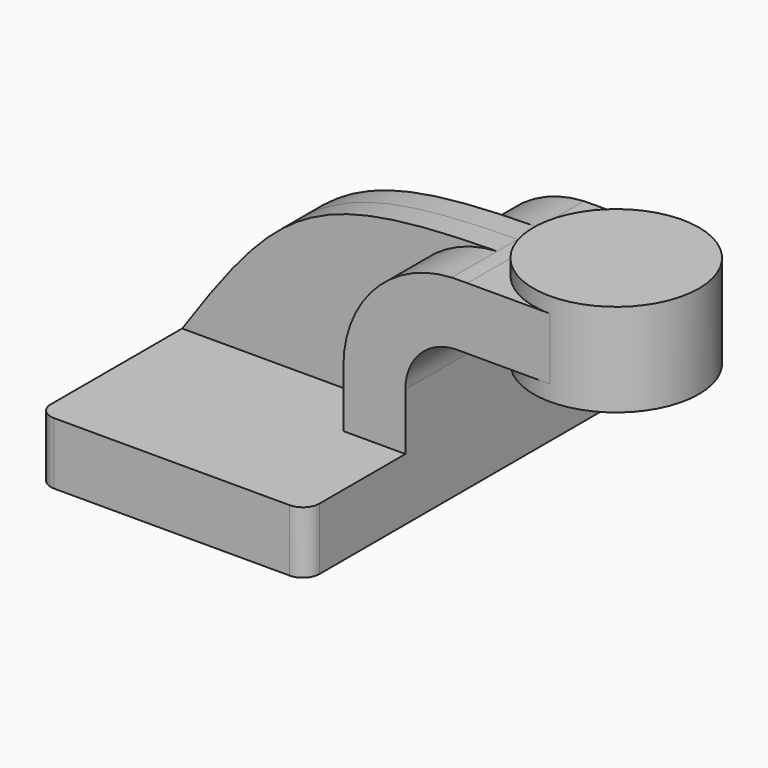
from build123d import *

# Parameters (mm, degrees)
F1_DEPTH = 63.5
F2_DEPTH = 25.4
F3_DEPTH = 7.9375
F5_R     = 5.08
F6_DEPTH = 25.4


with BuildPart() as f1:
    # F0 (on Front) → F1 (new body, symmetric)
    with BuildSketch(Plane.XZ):
        Polygon((-41.275, -9.525), (41.275, -9.525), (41.275, 9.525), (22.225, 9.525), (-41.275, 9.525), align=None)
    extrude(amount=F1_DEPTH, both=True)

    # F0 (on Front) → F2 (join, symmetric)
    with BuildSketch(Plane.XZ):
        with BuildLine():
            Line((22.225, 9.525), (41.275, 9.525))
            Line((41.275, 9.525), (41.275, 27.0002))
            ThreePointArc((41.275, 27.0002), (45.9246798487, 38.2255201513), (57.15, 42.8752))
            Line((57.15, 42.8752), (60.325, 42.8752))
            Line((60.325, 42.8752), (60.325, 61.9252))
            add(Edge.make_bspline(
                [(55.5200098819, 61.8871425031), (57.0859299245, 61.9054209742), (58.687127075, 61.9179033933), (60.325, 61.9252)],
                knots=[111.2130490849, 111.2130490849, 111.2130490849, 111.2130490849, 114.3168446032, 114.3168446032, 114.3168446032, 114.3168446032], degree=3))
            ThreePointArc((55.5200098819, 61.8871425031), (31.8845786709, 51.1127301464), (22.225, 27.0002))
            Line((22.225, 27.0002), (22.225, 9.525))
        make_face()
    extrude(amount=F2_DEPTH, both=True)

    # F0 (on Front) → F3 (join, symmetric)
    with BuildSketch(Plane.XZ):
        with BuildLine():
            add(Edge.make_bspline(
                [(-41.275, 9.525), (-11.4062497234, 53.1358095427), (-0.5889513978, 61.2322009997), (55.5200098819, 61.8871425031)],
                knots=[0, 0, 0, 0, 111.2130490849, 111.2130490849, 111.2130490849, 111.2130490849], degree=3))
            Line((-41.275, 9.525), (22.225, 9.525))
            Line((22.225, 9.525), (22.225, 27.0002))
            ThreePointArc((22.225, 27.0002), (31.8845786709, 51.1127301464), (55.5200098819, 61.8871425031))
        make_face()
    extrude(amount=F3_DEPTH, both=True)

    # F0 (on Front) → F4 (revolve)
    with BuildSketch(Plane.XZ):
        Polygon((85.725, 66.675), (85.725, 61.9252), (85.725, 42.8752), (85.725, 38.1), (111.125, 38.1), (111.125, 66.675), align=None)
    revolve(axis=Axis((85.725, 0, 52.3875), (0, 0, 1)))

    # F5
    f5_edges = [f1.edges().sort_by_distance(p)[0] for p in [
        (-41.275, -63.5, 0),
        (41.275, -63.5, 0),
        (-41.275, 63.5, 0),
        (41.275, 63.5, 0),
    ]]
    fillet(f5_edges, radius=F5_R)

    # F6 (add): faces of the model
    f6_faces = [f1.faces().sort_by_distance(p)[0] for p in [
        (60.325, 12.7, 52.4002),
        (60.325, -12.7, 52.4002),
    ]]
    extrude(f6_faces, amount=F6_DEPTH)


solid = f1.part
